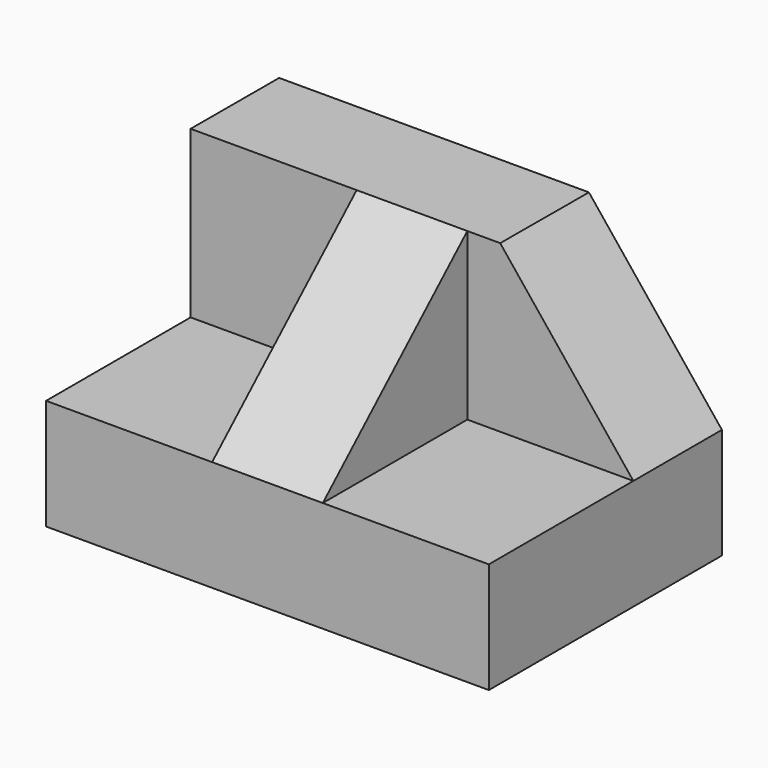
from build123d import *

# Parameters (mm, degrees)
F1_DEPTH = 50.8
F3_DEPTH = 25.4
F4_W     = 12.7
F4_H     = 20.7277986608
F5_DEPTH = 19.05
F7_DEPTH = 25.4


with BuildPart() as f1:
    # F0 (on Right) → F1 (new body)
    with BuildSketch(Plane.YZ):
        Polygon((0, 0), (0, 31.7254364491), (-12.6999762453, 31.75), (-12.6999762453, 12.7), (-33.4277749062, 12.7), (-33.4277749062, 0), align=None)
    extrude(amount=F1_DEPTH)

    # F2 (on face) → F3 (cut)
    with BuildSketch(Plane.XZ.offset(12.6999762453)):
        Polygon((50.8, 31.75), (35.5220995843, 31.75), (50.8, 12.7), align=None)
    extrude(amount=-F3_DEPTH, mode=Mode.SUBTRACT)

    # F4 (on face) → F5 (join)
    with BuildSketch(Plane.XY.offset(12.7)):
        with Locations((25.4, -23.0638755757)):
            Rectangle(F4_W, F4_H)
    extrude(amount=F5_DEPTH)

    # F6 (on face) → F7 (cut)
    with BuildSketch(Plane.YZ.offset(31.75)):
        Polygon((-33.4277749062, 31.75), (-33.4277749062, 12.7), (-12.6999762453, 31.75), align=None)
    extrude(amount=-F7_DEPTH, mode=Mode.SUBTRACT)


solid = f1.part
